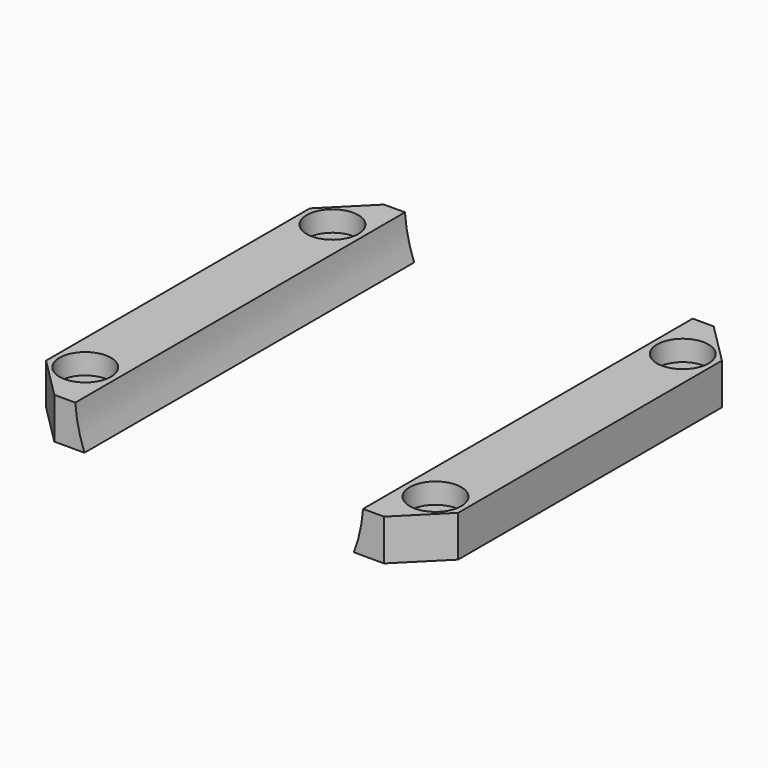
from build123d import *

# Parameters (mm, degrees)
CYLINDER495_R      = 2.5
CYLINDER495_DEPTH  = 3
CYLINDER496_R      = 2.5
CYLINDER496_DEPTH  = 3
CYLINDER494_R      = 2.5
CYLINDER494_DEPTH  = 3
CYLINDER493_R      = 2.5
CYLINDER493_DEPTH  = 3
CYLINDER492_R      = 1.25
CYLINDER492_DEPTH  = 20
CYLINDER491_R      = 1.25
CYLINDER491_DEPTH  = 20
CYLINDER490_R      = 1.25
CYLINDER490_DEPTH  = 20
CYLINDER489_R      = 1.25
CYLINDER489_DEPTH  = 20
CYLINDER1801_R     = 14
CYLINDER1801_DEPTH = 40
BOX214_W           = 40
BOX214_H           = 40
BOX214_DEPTH       = 4
CHAMFER056_SIZE    = 4


with BuildPart() as obj1:
    # Cylinder495 → Cylinder495 (new body)
    with BuildSketch(Plane(origin=(58, -19, 26), x_dir=(1, 0, 0), z_dir=(0, 0, 1))):
        Circle(CYLINDER495_R)
    extrude(amount=CYLINDER495_DEPTH)


with BuildPart() as compound601:
    # Cylinder496 → Cylinder496 (new body)
    with BuildSketch(Plane(origin=(58, 11, 26), x_dir=(1, 0, 0), z_dir=(0, 0, 1))):
        Circle(CYLINDER496_R)
    extrude(amount=CYLINDER496_DEPTH)

    # Compound601: union obj1
    add(obj1.part)


with BuildPart() as compound601_1:
    # Compound601 placement: moved
    add(compound601.part.moved(Location((34, 0, 13))))


with BuildPart() as obj2:
    # Cylinder494 → Cylinder494 (new body)
    with BuildSketch(Plane(origin=(58, -19, 26), x_dir=(1, 0, 0), z_dir=(0, 0, 1))):
        Circle(CYLINDER494_R)
    extrude(amount=CYLINDER494_DEPTH)


with BuildPart() as compound603:
    # Cylinder493 → Cylinder493 (new body)
    with BuildSketch(Plane(origin=(58, 11, 26), x_dir=(1, 0, 0), z_dir=(0, 0, 1))):
        Circle(CYLINDER493_R)
    extrude(amount=CYLINDER493_DEPTH)

    # Compound600: union obj2
    add(obj2.part)


with BuildPart() as compound603_1:
    # Compound600 placement: moved
    add(compound603.part.moved(Location((0, 0, 13))))

    # Compound603: union Compound601
    add(compound601_1.part)


with BuildPart() as obj3:
    # Cylinder492 → Cylinder492 (new body)
    with BuildSketch(Plane(origin=(58, -19, 26), x_dir=(1, 0, 0), z_dir=(0, 0, 1))):
        Circle(CYLINDER492_R)
    extrude(amount=CYLINDER492_DEPTH)


with BuildPart() as compound599:
    # Cylinder491 → Cylinder491 (new body)
    with BuildSketch(Plane(origin=(58, 11, 26), x_dir=(1, 0, 0), z_dir=(0, 0, 1))):
        Circle(CYLINDER491_R)
    extrude(amount=CYLINDER491_DEPTH)

    # Compound599: union obj3
    add(obj3.part)


with BuildPart() as compound599_1:
    # Compound599 placement: moved
    add(compound599.part.moved(Location((34, 0, 0))))


with BuildPart() as obj4:
    # Cylinder490 → Cylinder490 (new body)
    with BuildSketch(Plane(origin=(58, -19, 26), x_dir=(1, 0, 0), z_dir=(0, 0, 1))):
        Circle(CYLINDER490_R)
    extrude(amount=CYLINDER490_DEPTH)


with BuildPart() as compound602:
    # Cylinder489 → Cylinder489 (new body)
    with BuildSketch(Plane(origin=(58, 11, 26), x_dir=(1, 0, 0), z_dir=(0, 0, 1))):
        Circle(CYLINDER489_R)
    extrude(amount=CYLINDER489_DEPTH)

    # Compound897: union obj4
    add(obj4.part)

    # Compound602: union Compound599
    add(compound599_1.part)


with BuildPart() as obj5:
    # Cylinder1801 → Cylinder1801 (new body)
    with BuildSketch(Plane(origin=(75, 16, 42), x_dir=(1, 0, 0), z_dir=(0, -1, 0))):
        Circle(CYLINDER1801_R)
    extrude(amount=CYLINDER1801_DEPTH)


with BuildPart() as chamfer056:
    # Box214 → Box214 (new body)
    with BuildSketch(Plane(origin=(55, -24, 37), x_dir=(1, 0, 0), z_dir=(0, 0, 1))):
        with Locations((20, 20)):
            Rectangle(BOX214_W, BOX214_H)
    extrude(amount=BOX214_DEPTH)

    # Cut531: cut obj5
    add(obj5.part, mode=Mode.SUBTRACT)

    # Cut376: cut Compound602
    add(compound602.part, mode=Mode.SUBTRACT)

    # Cut377: cut Compound603
    add(compound603_1.part, mode=Mode.SUBTRACT)

    # Chamfer056
    chamfer056_edges = [chamfer056.edges().sort_by_distance(p)[0] for p in [
        (55, -24, 39),
        (55, 16, 39),
        (95, -24, 39),
        (95, 16, 39),
    ]]
    chamfer(chamfer056_edges, length=CHAMFER056_SIZE)


solid = chamfer056.part
